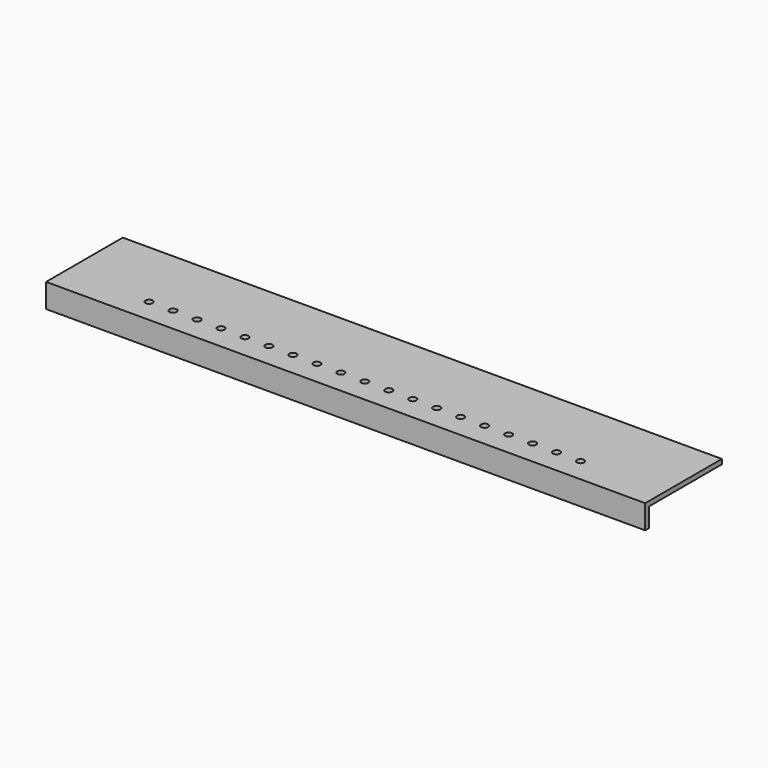
from build123d import *

# Parameters (mm, degrees)
F0_W     = 250
F0_H     = 40
F0_R     = 1.5
F1_DEPTH = 2
F2_W     = 250
F2_H     = 2
F3_DEPTH = 8


with BuildPart() as f1:
    # F0 (on Top) → F1 (new body)
    with BuildSketch(Plane.XY):
        with Locations((0, 10)):
            Rectangle(F0_W, F0_H)
        with Locations((-90, 0)):
            Circle(F0_R, mode=Mode.SUBTRACT)
        with Locations((-80, 0)):
            Circle(F0_R, mode=Mode.SUBTRACT)
        with Locations((-70, 0)):
            Circle(F0_R, mode=Mode.SUBTRACT)
        with Locations((-60, 0)):
            Circle(F0_R, mode=Mode.SUBTRACT)
        with Locations((-50, 0)):
            Circle(F0_R, mode=Mode.SUBTRACT)
        with Locations((-40, 0)):
            Circle(F0_R, mode=Mode.SUBTRACT)
        with Locations((-30, 0)):
            Circle(F0_R, mode=Mode.SUBTRACT)
        with Locations((-20, 0)):
            Circle(F0_R, mode=Mode.SUBTRACT)
        with Locations((-10, 0)):
            Circle(F0_R, mode=Mode.SUBTRACT)
        Circle(F0_R, mode=Mode.SUBTRACT)
        with Locations((10, 0)):
            Circle(F0_R, mode=Mode.SUBTRACT)
        with Locations((20, 0)):
            Circle(F0_R, mode=Mode.SUBTRACT)
        with Locations((30, 0)):
            Circle(F0_R, mode=Mode.SUBTRACT)
        with Locations((40, 0)):
            Circle(F0_R, mode=Mode.SUBTRACT)
        with Locations((50, 0)):
            Circle(F0_R, mode=Mode.SUBTRACT)
        with Locations((60, 0)):
            Circle(F0_R, mode=Mode.SUBTRACT)
        with Locations((70, 0)):
            Circle(F0_R, mode=Mode.SUBTRACT)
        with Locations((80, 0)):
            Circle(F0_R, mode=Mode.SUBTRACT)
        with Locations((90, 0)):
            Circle(F0_R, mode=Mode.SUBTRACT)
    extrude(amount=F1_DEPTH)

    # F2 (on face) → F3 (join)
    with BuildSketch(Plane(origin=(0, 0, 0), x_dir=(1, 0, 0), z_dir=(0, 0, -1))):
        with Locations((0, 9)):
            Rectangle(F2_W, F2_H)
    extrude(amount=F3_DEPTH)


solid = f1.part
